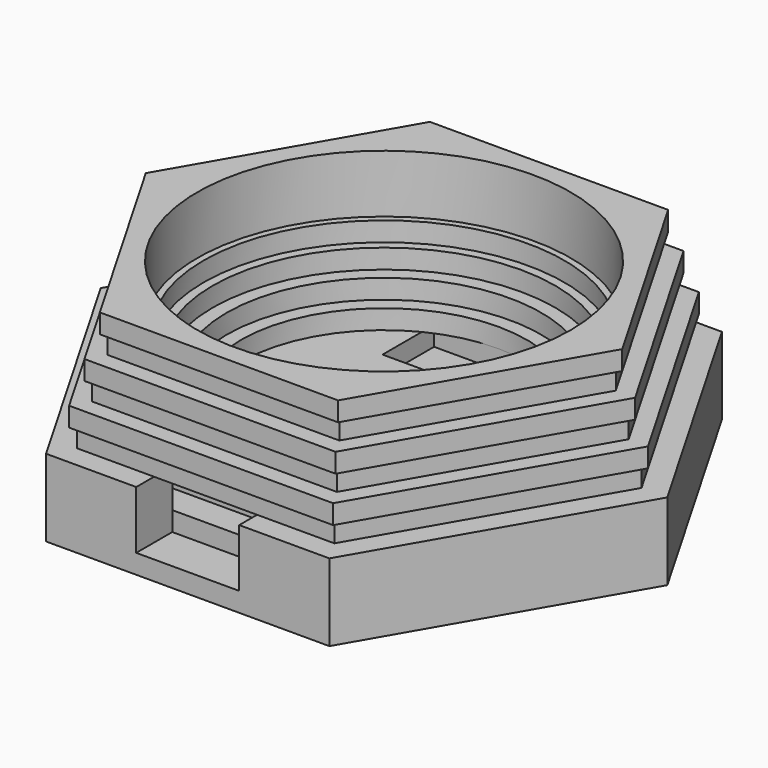
from build123d import *

# Parameters (mm, degrees)
PAD_DEPTH       = 9
SKETCH001_W     = 26.1
SKETCH001_H     = 34.4
POCKET_DEPTH    = 3
SKETCH002_R     = 22.22
PAD001_DEPTH    = 3
SKETCH003_R     = 24.44
PAD002_DEPTH    = 3
SKETCH004_R     = 26.6
PAD003_DEPTH    = 3
SKETCH005_R     = 28
PAD004_DEPTH    = 3
SKETCH006_R     = 29
PAD005_DEPTH    = 3
SKETCH007_R     = 29
PAD006_DEPTH    = 3
SKETCH008_R     = 29
PAD007_DEPTH    = 3
SKETCH009_W     = 17
SKETCH009_H     = 24
POCKET001_DEPTH = 3
SKETCH010_W     = 16
SKETCH010_H     = 9
POCKET002_DEPTH = 7
SKETCH011_W     = 20
SKETCH011_H     = 10
POCKET003_DEPTH = 3


with BuildPart() as part:
    # Sketch → Pad (new body)
    with BuildSketch(Plane.XY):
        Polygon((44, 0), (22, 38.105118), (-22, 38.105118), (-44, 0), (-22, -38.105118), (22, -38.105118), align=None)
    extrude(amount=PAD_DEPTH)

    # Sketch001 (on Face8 of Pad) → Pocket (cut)
    with BuildSketch(Plane.XY.offset(9)):
        with Locations((0, -13.905118)):
            Rectangle(SKETCH001_W, SKETCH001_H)
    extrude(amount=-POCKET_DEPTH, mode=Mode.SUBTRACT)

    # Sketch002 (on Face5 of Pocket) → Pad001 (join)
    with BuildSketch(Plane.XY.offset(9)):
        Polygon((22, 38.105118), (-22, 38.105118), (-44, 0), (-22, -38.105118), (22, -38.105118), (44, 0), align=None)
        Circle(SKETCH002_R, mode=Mode.SUBTRACT)
    extrude(amount=PAD001_DEPTH)

    # Sketch003 (on Face14 of Pad001) → Pad002 (join)
    with BuildSketch(Plane.XY.offset(12)):
        Polygon((40, 0), (20, 34.641016), (-20, 34.641016), (-40, 0), (-20, -34.641016), (20, -34.641016), align=None)
        Circle(SKETCH003_R, mode=Mode.SUBTRACT)
    extrude(amount=PAD002_DEPTH)

    # Sketch004 (on Face21 of Pad002) → Pad003 (join)
    with BuildSketch(Plane.XY.offset(15)):
        Polygon((41, 0), (20.5, 35.507042), (-20.5, 35.507042), (-41, 0), (-20.5, -35.507042), (20.5, -35.507042), align=None)
        Circle(SKETCH004_R, mode=Mode.SUBTRACT)
    extrude(amount=PAD003_DEPTH)

    # Sketch005 (on Face28 of Pad003) → Pad004 (join)
    with BuildSketch(Plane.XY.offset(18)):
        Polygon((19, 32.908965), (-19, 32.908965), (-38, 0), (-19, -32.908965), (19, -32.908965), (38, 0), align=None)
        Circle(SKETCH005_R, mode=Mode.SUBTRACT)
    extrude(amount=PAD004_DEPTH)

    # Sketch006 (on Face35 of Pad004) → Pad005 (join)
    with BuildSketch(Plane.XY.offset(21)):
        Polygon((39, 0), (19.5, 33.774991), (-19.5, 33.774991), (-39, 0), (-19.5, -33.774991), (19.5, -33.774991), align=None)
        Circle(SKETCH006_R, mode=Mode.SUBTRACT)
    extrude(amount=PAD005_DEPTH)

    # Sketch007 (on Face42 of Pad005) → Pad006 (join)
    with BuildSketch(Plane.XY.offset(24)):
        Polygon((36, 0), (18, 31.176915), (-18, 31.176915), (-36, 0), (-18, -31.176915), (18, -31.176915), align=None)
        Circle(SKETCH007_R, mode=Mode.SUBTRACT)
    extrude(amount=PAD006_DEPTH)

    # Sketch008 (on Face49 of Pad006) → Pad007 (join)
    with BuildSketch(Plane.XY.offset(27)):
        Polygon((37, 0), (18.5, 32.04294), (-18.5, 32.04294), (-37, 0), (-18.5, -32.04294), (18.5, -32.04294), align=None)
        Circle(SKETCH008_R, mode=Mode.SUBTRACT)
    extrude(amount=PAD007_DEPTH)

    # Sketch009 (on Face74 of Pad007) → Pocket001 (cut)
    with BuildSketch(Plane.XY.offset(6)):
        with Locations((0, -8.705118)):
            Rectangle(SKETCH009_W, SKETCH009_H)
    extrude(amount=-POCKET001_DEPTH, mode=Mode.SUBTRACT)

    # Sketch010 (on Face12 of Pocket001) → Pocket002 (cut)
    with BuildSketch(Plane.XZ.offset(38.105118)):
        with Locations((0, 7.5)):
            Rectangle(SKETCH010_W, SKETCH010_H)
    extrude(amount=-POCKET002_DEPTH, mode=Mode.SUBTRACT)

    # Sketch011 (on Face40 of Pocket002) → Pocket003 (cut)
    with BuildSketch(Plane.XY.offset(9)):
        with Locations((0, 17.22)):
            Rectangle(SKETCH011_W, SKETCH011_H)
    extrude(amount=-POCKET003_DEPTH, mode=Mode.SUBTRACT)


solid = part.part
